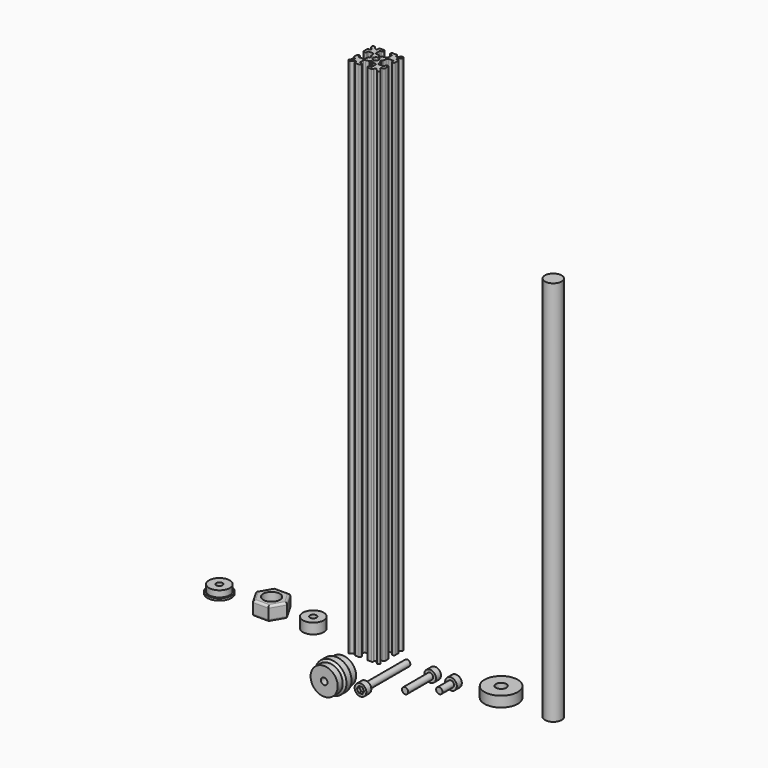
from build123d import *

# Parameters (mm, degrees)
F1_DEPTH  = 250
F4_R      = 1.6
F5_DEPTH  = 11
F6_R      = 1.5
F7_DEPTH  = 25
F8_R      = 2.8
F8_R_2    = 1.5
F9_DEPTH  = 3
F10_R     = 5
F10_R_2   = 1.55
F11_DEPTH = 5
F14_R     = 2.8
F15_DEPTH = 3
F16_R     = 1.5
F17_DEPTH = 15
F19_DEPTH = 1.5
F21_DEPTH = 1.5
F23_R     = 1.5
F24_DEPTH = 8
F26_DEPTH = 6.8
F27_R     = 4
F28_DEPTH = 7
F29_R     = 1
F30_R     = 5.75
F31_DEPTH = 1
F32_R     = 5
F33_DEPTH = 3
F34_R     = 1.5
F35_DEPTH = 4
F36_R     = 8
F37_DEPTH = 5
F38_R     = 2.5
F39_DEPTH = 5
F40_R     = 4
F41_DEPTH = 185


with BuildPart() as f1:
    # F0 (on Top) → F1 (new body)
    with BuildSketch(Plane.XY):
        with BuildLine():
            Line((-7.5, -6.7171572875), (-7.5, -7))
            ThreePointArc((-7.5, -7), (-7.3535533906, -7.3535533906), (-7, -7.5))
            Line((-7, -7.5), (-6.7171572875, -7.5))
            ThreePointArc((-6.7171572875, -7.5), (-6.5258155713, -7.4619397663), (-6.3636038969, -7.3535533906))
            Line((-6.3636038969, -7.3535533906), (-5.2564971157, -6.2464466094))
            ThreePointArc((-5.2564971157, -6.2464466094), (-4.711602009, -6.1380602337), (-4.4029437252, -6.6))
            Line((-4.4029437252, -6.6), (-4.4029437252, -7))
            ThreePointArc((-4.4029437252, -7), (-4.2564971157, -7.3535533906), (-3.9029437252, -7.5))
            Line((-3.9029437252, -7.5), (-2.1, -7.5))
            ThreePointArc((-2.1, -7.5), (-1.7464466094, -7.3535533906), (-1.6, -7))
            Line((-1.6, -7), (-1.6, -6.6))
            ThreePointArc((-1.6, -6.6), (-1.7464466094, -6.2464466094), (-2.1, -6.1))
            Line((-2.1, -6.1), (-2.7, -6.1))
            ThreePointArc((-2.7, -6.1), (-2.8414213562, -6.0414213562), (-2.9, -5.9))
            Line((-2.9, -5.9), (-2.9, -3.7379295017))
            ThreePointArc((-2.9, -3.7379295017), (-2.7836336902, -3.4172658278), (-2.4886992329, -3.2458599476))
            Line((-2.4886992329, -3.2458599476), (-0.7345203068, -2.929656021))
            ThreePointArc((-0.7345203068, -2.929656021), (-0.6165465239, -2.8610936689), (-0.57, -2.7328281993))
            Line((-0.57, -2.7328281993), (-0.57, -2.6))
            ThreePointArc((-0.57, -2.6), (-0.5114213562, -2.4585786438), (-0.37, -2.4))
            Line((-0.37, -2.4), (0, -2.4))
            Line((0, -2.4), (0.37, -2.4))
            ThreePointArc((0.37, -2.4), (0.5114213562, -2.4585786438), (0.57, -2.6))
            Line((0.57, -2.6), (0.57, -2.7328281993))
            ThreePointArc((0.57, -2.7328281993), (0.6165465239, -2.8610936689), (0.7345203068, -2.929656021))
            Line((0.7345203068, -2.929656021), (2.4886992329, -3.2458599476))
            ThreePointArc((2.4886992329, -3.2458599476), (2.7836336902, -3.4172658278), (2.9, -3.7379295017))
            Line((2.9, -3.7379295017), (2.9, -5.9))
            ThreePointArc((2.9, -5.9), (2.8414213562, -6.0414213562), (2.7, -6.1))
            Line((2.7, -6.1), (2.1, -6.1))
            ThreePointArc((2.1, -6.1), (1.7464466094, -6.2464466094), (1.6, -6.6))
            Line((1.6, -6.6), (1.6, -7))
            ThreePointArc((1.6, -7), (1.7464466094, -7.3535533906), (2.1, -7.5))
            Line((2.1, -7.5), (3.9029437252, -7.5))
            ThreePointArc((3.9029437252, -7.5), (4.2564971157, -7.3535533906), (4.4029437252, -7))
            Line((4.4029437252, -7), (4.4029437252, -6.6))
            ThreePointArc((4.4029437252, -6.6), (4.711602009, -6.1380602337), (5.2564971157, -6.2464466094))
            Line((5.2564971157, -6.2464466094), (6.3636038969, -7.3535533906))
            ThreePointArc((6.3636038969, -7.3535533906), (6.5258155713, -7.4619397663), (6.7171572875, -7.5))
            Line((6.7171572875, -7.5), (7, -7.5))
            ThreePointArc((7, -7.5), (7.3535533906, -7.3535533906), (7.5, -7))
            Line((7.5, -7), (7.5, -6.7171572875))
            ThreePointArc((7.5, -6.7171572875), (7.4619397663, -6.5258155713), (7.3535533906, -6.3636038969))
            Line((7.3535533906, -6.3636038969), (6.2464466094, -5.2564971157))
            ThreePointArc((6.2464466094, -5.2564971157), (6.1380602337, -4.711602009), (6.6, -4.4029437252))
            Line((6.6, -4.4029437252), (7, -4.4029437252))
            ThreePointArc((7, -4.4029437252), (7.3535533906, -4.2564971157), (7.5, -3.9029437252))
            Line((7.5, -3.9029437252), (7.5, -2.1))
            ThreePointArc((7.5, -2.1), (7.3535533906, -1.7464466094), (7, -1.6))
            Line((7, -1.6), (6.6, -1.6))
            ThreePointArc((6.6, -1.6), (6.2464466094, -1.7464466094), (6.1, -2.1))
            Line((6.1, -2.1), (6.1, -2.7))
            ThreePointArc((6.1, -2.7), (6.0414213562, -2.8414213562), (5.9, -2.9))
            Line((5.9, -2.9), (3.7379295017, -2.9))
            ThreePointArc((3.7379295017, -2.9), (3.4172658278, -2.7836336902), (3.2458599476, -2.4886992329))
            Line((3.2458599476, -2.4886992329), (2.929656021, -0.7345203068))
            ThreePointArc((2.929656021, -0.7345203068), (2.8610936689, -0.6165465239), (2.7328281993, -0.57))
            Line((2.7328281993, -0.57), (2.6, -0.57))
            ThreePointArc((2.6, -0.57), (2.4585786438, -0.5114213562), (2.4, -0.37))
            Line((2.4, -0.37), (2.4, 0))
            Line((2.4, 0), (2.4, 0.37))
            ThreePointArc((2.4, 0.37), (2.4585786438, 0.5114213562), (2.6, 0.57))
            Line((2.6, 0.57), (2.7328281993, 0.57))
            ThreePointArc((2.7328281993, 0.57), (2.8610936689, 0.6165465239), (2.929656021, 0.7345203068))
            Line((2.929656021, 0.7345203068), (3.2458599476, 2.4886992329))
            ThreePointArc((3.2458599476, 2.4886992329), (3.4172658278, 2.7836336902), (3.7379295017, 2.9))
            Line((3.7379295017, 2.9), (5.9, 2.9))
            ThreePointArc((5.9, 2.9), (6.0414213562, 2.8414213562), (6.1, 2.7))
            Line((6.1, 2.7), (6.1, 2.1))
            ThreePointArc((6.1, 2.1), (6.2464466094, 1.7464466094), (6.6, 1.6))
            Line((6.6, 1.6), (7, 1.6))
            ThreePointArc((7, 1.6), (7.3535533906, 1.7464466094), (7.5, 2.1))
            Line((7.5, 2.1), (7.5, 3.9029437252))
            ThreePointArc((7.5, 3.9029437252), (7.3535533906, 4.2564971157), (7, 4.4029437252))
            Line((7, 4.4029437252), (6.6, 4.4029437252))
            ThreePointArc((6.6, 4.4029437252), (6.1380602337, 4.711602009), (6.2464466094, 5.2564971157))
            Line((6.2464466094, 5.2564971157), (7.3535533906, 6.3636038969))
            ThreePointArc((7.3535533906, 6.3636038969), (7.4619397663, 6.5258155713), (7.5, 6.7171572875))
            Line((7.5, 6.7171572875), (7.5, 7))
            ThreePointArc((7.5, 7), (7.3535533906, 7.3535533906), (7, 7.5))
            Line((7, 7.5), (6.7171572875, 7.5))
            ThreePointArc((6.7171572875, 7.5), (6.5258155713, 7.4619397663), (6.3636038969, 7.3535533906))
            Line((6.3636038969, 7.3535533906), (5.2564971157, 6.2464466094))
            ThreePointArc((5.2564971157, 6.2464466094), (4.711602009, 6.1380602337), (4.4029437252, 6.6))
            Line((4.4029437252, 6.6), (4.4029437252, 7))
            ThreePointArc((4.4029437252, 7), (4.2564971157, 7.3535533906), (3.9029437252, 7.5))
            Line((3.9029437252, 7.5), (2.1, 7.5))
            ThreePointArc((2.1, 7.5), (1.7464466094, 7.3535533906), (1.6, 7))
            Line((1.6, 7), (1.6, 6.6))
            ThreePointArc((1.6, 6.6), (1.7464466094, 6.2464466094), (2.1, 6.1))
            Line((2.1, 6.1), (2.7, 6.1))
            ThreePointArc((2.7, 6.1), (2.8414213562, 6.0414213562), (2.9, 5.9))
            Line((2.9, 5.9), (2.9, 3.7379295017))
            ThreePointArc((2.9, 3.7379295017), (2.7836336902, 3.4172658278), (2.4886992329, 3.2458599476))
            Line((2.4886992329, 3.2458599476), (0.7345203068, 2.929656021))
            ThreePointArc((0.7345203068, 2.929656021), (0.6165465239, 2.8610936689), (0.57, 2.7328281993))
            Line((0.57, 2.7328281993), (0.57, 2.6))
            ThreePointArc((0.57, 2.6), (0.5114213562, 2.4585786438), (0.37, 2.4))
            Line((0.37, 2.4), (0, 2.4))
            Line((0, 2.4), (-0.37, 2.4))
            ThreePointArc((-0.37, 2.4), (-0.5114213562, 2.4585786438), (-0.57, 2.6))
            Line((-0.57, 2.6), (-0.57, 2.7328281993))
            ThreePointArc((-0.57, 2.7328281993), (-0.6165465239, 2.8610936689), (-0.7345203068, 2.929656021))
            Line((-0.7345203068, 2.929656021), (-2.4886992329, 3.2458599476))
            ThreePointArc((-2.4886992329, 3.2458599476), (-2.7836336902, 3.4172658278), (-2.9, 3.7379295017))
            Line((-2.9, 3.7379295017), (-2.9, 5.9))
            ThreePointArc((-2.9, 5.9), (-2.8414213562, 6.0414213562), (-2.7, 6.1))
            Line((-2.7, 6.1), (-2.1, 6.1))
            ThreePointArc((-2.1, 6.1), (-1.7464466094, 6.2464466094), (-1.6, 6.6))
            Line((-1.6, 6.6), (-1.6, 7))
            ThreePointArc((-1.6, 7), (-1.7464466094, 7.3535533906), (-2.1, 7.5))
            Line((-2.1, 7.5), (-3.9029437252, 7.5))
            ThreePointArc((-3.9029437252, 7.5), (-4.2564971157, 7.3535533906), (-4.4029437252, 7))
            Line((-4.4029437252, 7), (-4.4029437252, 6.6))
            ThreePointArc((-4.4029437252, 6.6), (-4.711602009, 6.1380602337), (-5.2564971157, 6.2464466094))
            Line((-5.2564971157, 6.2464466094), (-6.3636038969, 7.3535533906))
            ThreePointArc((-6.3636038969, 7.3535533906), (-6.5258155713, 7.4619397663), (-6.7171572875, 7.5))
            Line((-6.7171572875, 7.5), (-7, 7.5))
            ThreePointArc((-7, 7.5), (-7.3535533906, 7.3535533906), (-7.5, 7))
            Line((-7.5, 7), (-7.5, 6.7171572875))
            ThreePointArc((-7.5, 6.7171572875), (-7.4619397663, 6.5258155713), (-7.3535533906, 6.3636038969))
            Line((-7.3535533906, 6.3636038969), (-6.2464466094, 5.2564971157))
            ThreePointArc((-6.2464466094, 5.2564971157), (-6.1380602337, 4.711602009), (-6.6, 4.4029437252))
            Line((-6.6, 4.4029437252), (-7, 4.4029437252))
            ThreePointArc((-7, 4.4029437252), (-7.3535533906, 4.2564971157), (-7.5, 3.9029437252))
            Line((-7.5, 3.9029437252), (-7.5, 2.1))
            ThreePointArc((-7.5, 2.1), (-7.3535533906, 1.7464466094), (-7, 1.6))
            Line((-7, 1.6), (-6.6, 1.6))
            ThreePointArc((-6.6, 1.6), (-6.2464466094, 1.7464466094), (-6.1, 2.1))
            Line((-6.1, 2.1), (-6.1, 2.7))
            ThreePointArc((-6.1, 2.7), (-6.0414213562, 2.8414213562), (-5.9, 2.9))
            Line((-5.9, 2.9), (-3.7379295017, 2.9))
            ThreePointArc((-3.7379295017, 2.9), (-3.4172658278, 2.7836336902), (-3.2458599476, 2.4886992329))
            Line((-3.2458599476, 2.4886992329), (-2.929656021, 0.7345203068))
            ThreePointArc((-2.929656021, 0.7345203068), (-2.8610936689, 0.6165465239), (-2.7328281993, 0.57))
            Line((-2.7328281993, 0.57), (-2.6, 0.57))
            ThreePointArc((-2.6, 0.57), (-2.4585786438, 0.5114213562), (-2.4, 0.37))
            Line((-2.4, 0.37), (-2.4, 0))
            Line((-2.4, 0), (-2.4, -0.37))
            ThreePointArc((-2.4, -0.37), (-2.4585786438, -0.5114213562), (-2.6, -0.57))
            Line((-2.6, -0.57), (-2.7328281993, -0.57))
            ThreePointArc((-2.7328281993, -0.57), (-2.8610936689, -0.6165465239), (-2.929656021, -0.7345203068))
            Line((-2.929656021, -0.7345203068), (-3.2458599476, -2.4886992329))
            ThreePointArc((-3.2458599476, -2.4886992329), (-3.4172658278, -2.7836336902), (-3.7379295017, -2.9))
            Line((-3.7379295017, -2.9), (-5.9, -2.9))
            ThreePointArc((-5.9, -2.9), (-6.0414213562, -2.8414213562), (-6.1, -2.7))
            Line((-6.1, -2.7), (-6.1, -2.1))
            ThreePointArc((-6.1, -2.1), (-6.2464466094, -1.7464466094), (-6.6, -1.6))
            Line((-6.6, -1.6), (-7, -1.6))
            ThreePointArc((-7, -1.6), (-7.3535533906, -1.7464466094), (-7.5, -2.1))
            Line((-7.5, -2.1), (-7.5, -3.9029437252))
            ThreePointArc((-7.5, -3.9029437252), (-7.3535533906, -4.2564971157), (-7, -4.4029437252))
            Line((-7, -4.4029437252), (-6.6, -4.4029437252))
            ThreePointArc((-6.6, -4.4029437252), (-6.1380602337, -4.711602009), (-6.2464466094, -5.2564971157))
            Line((-6.2464466094, -5.2564971157), (-7.3535533906, -6.3636038969))
            ThreePointArc((-7.3535533906, -6.3636038969), (-7.4619397663, -6.5258155713), (-7.5, -6.7171572875))
        make_face()
        with BuildLine():
            ThreePointArc((-0.9545941546, -0.9545941546), (-1.2472373689, -0.5166226337), (-1.35, 0))
            ThreePointArc((-1.35, 0), (-1.2472373689, 0.5166226337), (-0.9545941546, 0.9545941546))
            ThreePointArc((-0.9545941546, 0.9545941546), (-0.5166226337, 1.2472373689), (0, 1.35))
            ThreePointArc((0, 1.35), (0.5166226337, 1.2472373689), (0.9545941546, 0.9545941546))
            ThreePointArc((0.9545941546, 0.9545941546), (1.2472373689, 0.5166226337), (1.35, 0))
            ThreePointArc((1.35, 0), (1.2472373689, -0.5166226337), (0.9545941546, -0.9545941546))
            ThreePointArc((0.9545941546, -0.9545941546), (0.5166226337, -1.2472373689), (0, -1.35))
            ThreePointArc((0, -1.35), (-0.5166226337, -1.2472373689), (-0.9545941546, -0.9545941546))
        make_face(mode=Mode.SUBTRACT)
    extrude(amount=F1_DEPTH)


with BuildPart() as f3:
    # F2 (on Right) → F3 (revolve)
    with BuildSketch(Plane.YZ):
        Polygon((-31, 6.5), (-31, 0), (-20, 0), (-20, 6.5), (-23, 6.5), (-24, 7.5), (-27, 7.5), (-28, 6.5), align=None)
    revolve(axis=Axis((0, -25.5, 0), (0, -1, 0)))

    # F4 (on face) → F5 (cut)
    with BuildSketch(Plane.XZ.offset(31)):
        Circle(F4_R)
    extrude(amount=-F5_DEPTH, mode=Mode.SUBTRACT)


with BuildPart() as f7:
    # F6 (on Front) → F7 (new body)
    with BuildSketch(Plane.XZ):
        with Locations((15, 0)):
            Circle(F6_R)
    extrude(amount=F7_DEPTH)

    # F8 (on face) → F9 (join)
    with BuildSketch(Plane.XZ.offset(25)):
        with Locations((15, 0)):
            Circle(F8_R)
        with Locations((15, 0)):
            Circle(F8_R_2, mode=Mode.SUBTRACT)
        with Locations((15, 0)):
            Circle(F8_R_2)
    extrude(amount=F9_DEPTH)


with BuildPart() as f11:
    # F10 (on Top) → F11 (new body)
    with BuildSketch(Plane.XY):
        with Locations((-30, 0)):
            Circle(F10_R)
        with Locations((-30, 0)):
            Circle(F10_R_2, mode=Mode.SUBTRACT)
    extrude(amount=F11_DEPTH)


with BuildPart() as f12_1:
    # F12: copy of F7
    add(f7.part.moved(Location((13.4135, 0, 0))))


with BuildPart() as f15:
    # F14 (on Front) → F15 (new body)
    with BuildSketch(Plane.XZ):
        with Locations((28.37, 0)):
            Circle(F14_R)
    extrude(amount=F15_DEPTH)

    # F16 (on face) → F17 (join)
    with BuildSketch(Plane.XZ.offset(3)):
        with Locations((28.37, 0)):
            Circle(F16_R)
    extrude(amount=F17_DEPTH)

    # F20 (on face) → F21 (cut)
    with BuildSketch(Plane(origin=(0, 0, 0), x_dir=(-1, 0, 0), z_dir=(0, 1, 0))):
        Polygon((-29.2376873055, -1.5028784983), (-27.5023126945, -1.5028784983), (-26.6346253889, 0), (-27.5023126945, 1.5028784983), (-29.2376873055, 1.5028784983), (-30.1053746111, 0), align=None)
    extrude(amount=-F21_DEPTH, mode=Mode.SUBTRACT)


with BuildPart() as f7_1:
    add(f7.part)

    # F18 (on face) → F19 (cut)
    with BuildSketch(Plane.XZ.offset(28)):
        Polygon((14.1194054907, -1.525234431), (15.8805945093, -1.525234431), (16.7611890187, 0), (15.8805945093, 1.525234431), (14.1194054907, 1.525234431), (13.2388109813, 0), align=None)
    extrude(amount=-F19_DEPTH, mode=Mode.SUBTRACT)


with BuildPart() as f22_1:
    # F22: copy of F15
    add(f15.part.moved(Location((10, 0, 0))))

    # F23 (on face) → F24 (cut)
    with BuildSketch(Plane.XZ.offset(18)):
        with Locations((38.37, 0)):
            Circle(F23_R)
    extrude(amount=-F24_DEPTH, mode=Mode.SUBTRACT)


with BuildPart() as f26:
    # F25 (on Top) → F26 (new body)
    with BuildSketch(Plane.XY):
        Polygon((-53.7527767497, -6.5), (-46.2472232503, -6.5), (-42.4944465005, 0), (-46.2472232503, 6.5), (-53.7527767497, 6.5), (-57.5055534995, 0), align=None)
    extrude(amount=F26_DEPTH)

    # F27 (on face) + F26_face1 (on face) → F28 (cut)
    with BuildSketch(Plane.XY.offset(6.8)):
        with Locations((-50, 0)):
            Circle(F27_R)
    with BuildSketch(Plane(origin=(-50, 0, 0), x_dir=(1, 0, 0), z_dir=(0, 0, -1))):
        Polygon((-3.7527767497, 6.5), (-7.5055534995, 0), (-3.7527767497, -6.5), (3.7527767497, -6.5), (7.5055534995, 0), (3.7527767497, 6.5), align=None)
    extrude(amount=-F28_DEPTH, dir=(0, 0, 1), mode=Mode.SUBTRACT)

    # F29
    f29_edges = [f26.edges().sort_by_distance(p)[0] for p in [
        (-50, 6.5, 6.8),
        (-55.629165, 3.25, 6.8),
        (-55.629165, -3.25, 6.8),
        (-50, -6.5, 6.8),
        (-44.370835, -3.25, 6.8),
        (-44.370835, 3.25, 6.8),
        (-44.370835, 3.25, 0),
        (-50, 6.5, 0),
        (-55.629165, 3.25, 0),
        (-44.370835, -3.25, 0),
        (-50, -6.5, 0),
        (-55.629165, -3.25, 0),
    ]]
    fillet(f29_edges, radius=F29_R)


with BuildPart() as f31:
    # F30 (on Top) → F31 (new body)
    with BuildSketch(Plane.XY):
        with Locations((-75, 0)):
            Circle(F30_R)
    extrude(amount=F31_DEPTH)

    # F32 (on face) → F33 (join)
    with BuildSketch(Plane.XY.offset(1)):
        with Locations((-75, 0)):
            Circle(F32_R)
    extrude(amount=F33_DEPTH)

    # F34 (on face) → F35 (cut)
    with BuildSketch(Plane.XY.offset(4)):
        with Locations((-75, 0)):
            Circle(F34_R)
    extrude(amount=-F35_DEPTH, mode=Mode.SUBTRACT)


with BuildPart() as f37:
    # F36 (on Top) → F37 (new body)
    with BuildSketch(Plane.XY):
        with Locations((60, 0)):
            Circle(F36_R)
    extrude(amount=F37_DEPTH)

    # F38 (on face) → F39 (cut)
    with BuildSketch(Plane.XY.offset(5)):
        with Locations((60, 0)):
            Circle(F38_R)
    extrude(amount=-F39_DEPTH, mode=Mode.SUBTRACT)


with BuildPart() as f41:
    # F40 (on Top) → F41 (new body)
    with BuildSketch(Plane.XY):
        with Locations((85, 0)):
            Circle(F40_R)
    extrude(amount=F41_DEPTH)


solid = Compound([f1.part, f3.part, f11.part, f15.part, f7_1.part, f22_1.part, f26.part, f31.part, f37.part, f41.part])
